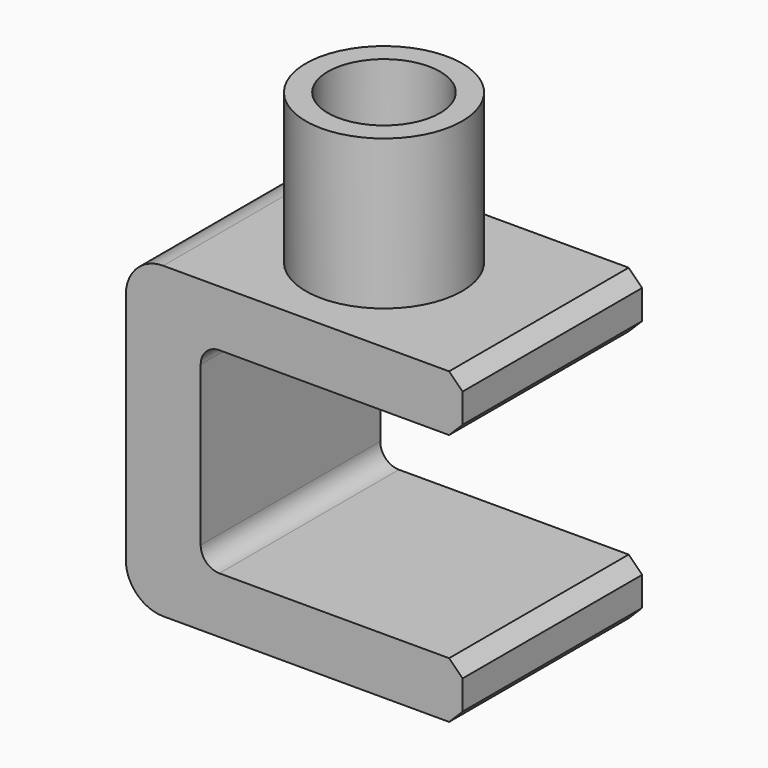
from build123d import *

# Parameters (mm, degrees)
F2_DEPTH = 19.05
F1_R     = 13.2715
F1_R_2   = 9.525
F3_DEPTH = 25.4


with BuildPart() as f2:
    # F0 (on Front) → F2 (new body, symmetric)
    with BuildSketch(Plane.XZ):
        with BuildLine():
            Line((0, 0), (-22.225, 0))
            ThreePointArc((-22.225, 0), (-26.715128, -1.859872), (-28.575, -6.35))
            Line((-28.575, -6.35), (-28.575, -46.0375))
            ThreePointArc((-28.575, -46.0375), (-26.715128, -50.527628), (-22.225, -52.3875))
            Line((-22.225, -52.3875), (26.289, -52.3875))
            Line((26.289, -52.3875), (28.575, -50.1015))
            Line((28.575, -50.1015), (28.575, -45.1485))
            Line((28.575, -45.1485), (26.289, -42.8625))
            Line((26.289, -42.8625), (-12.7, -42.8625))
            ThreePointArc((-12.7, -42.8625), (-14.945064, -41.932564), (-15.875, -39.6875))
            Line((-15.875, -39.6875), (-15.875, -12.7))
            ThreePointArc((-15.875, -12.7), (-14.945064, -10.454936), (-12.7, -9.525))
            Line((-12.7, -9.525), (26.289, -9.525))
            Line((26.289, -9.525), (28.575, -7.239))
            Line((28.575, -7.239), (28.575, -2.286))
            Line((28.575, -2.286), (26.289, 0))
            Line((26.289, 0), (0, 0))
        make_face()
    extrude(amount=F2_DEPTH, both=True)

    # F1 (on Top) → F3 (join)
    with BuildSketch(Plane.XY):
        Circle(F1_R)
        Circle(F1_R_2, mode=Mode.SUBTRACT)
    extrude(amount=F3_DEPTH)


solid = f2.part
